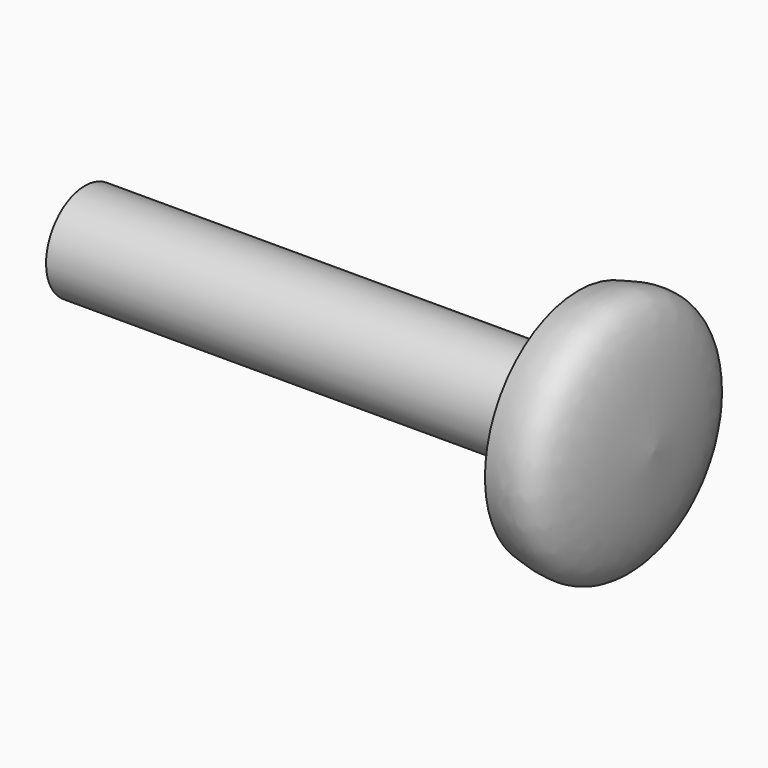
from build123d import *


with BuildPart() as f1:
    # F0 (on Front) → F1 (revolve)
    with BuildSketch(Plane.XZ):
        with BuildLine():
            Line((0, 1.6256), (0, 0))
            Line((0, 0), (19.05, 0))
            add(Edge.make_bspline(
                [(16.51, 3.9064404555), (17.1315021919, 4.0700000449), (18.7205927373, 4.4881980829), (18.9253341176, 1.6985817793), (19.05, 0)],
                knots=[0, 0, 0, 0, 0.3911055879, 1, 1, 1, 1], degree=3))
            Line((16.51, 3.9064404555), (16.51, 1.6256))
            Line((16.51, 1.6256), (0, 1.6256))
        make_face()
    revolve(axis=Axis((9.525, 0, 0), (1, 0, 0)))


solid = f1.part
